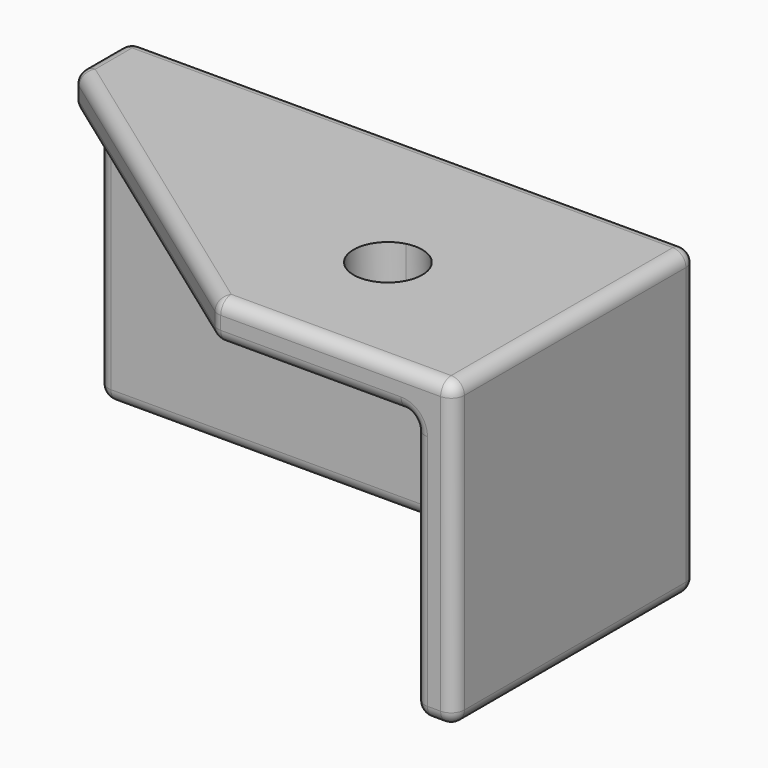
from build123d import *

# Parameters (mm, degrees)
F0_W     = 43
F0_H     = 23
F0_R     = 2.6
F1_DEPTH = 1.5
F3_DEPTH = 20
F5_DEPTH = 3.001
F7_DEPTH = 3.001
F8_R     = 1


with BuildPart() as f1:
    # F0 (on Front) → F1 (new body, symmetric)
    with BuildSketch(Plane.XZ):
        Rectangle(F0_W, F0_H)
        with Locations((-11.5, 0)):
            Circle(F0_R, mode=Mode.SUBTRACT)
        with Locations((8.5, 0)):
            Circle(F0_R, mode=Mode.SUBTRACT)
    extrude(amount=F1_DEPTH, both=True)

    # F2 (on face) → F3 (join)
    with BuildSketch(Plane.XZ.offset(1.5)):
        Polygon((21.5, -11.5), (21.5, 11.5), (-21.5, 11.5), (-21.5, 8.5), (18.5, 8.5), (18.5, -11.5), align=None)
    extrude(amount=F3_DEPTH)

    # F4 (on face) → F5 (cut, through all)
    with BuildSketch(Plane(origin=(0, 0, 8.5), x_dir=(1, 0, 0), z_dir=(0, 0, -1))):
        with BuildLine():
            ThreePointArc((9.1542480146, 14.0163385176), (5.9836614824, 12.1542480146), (7.8457519854, 8.9836614824))
            Line((7.8457519854, 8.9836614824), (9.1542480146, 14.0163385176))
        make_face()
        with BuildLine():
            Line((9.1542480146, 14.0163385176), (7.8457519854, 8.9836614824))
            ThreePointArc((7.8457519854, 8.9836614824), (10.0904331426, 9.4431766194), (11.1, 11.5))
            ThreePointArc((11.1, 11.5), (10.5568233806, 13.0904331426), (9.1542480146, 14.0163385176))
        make_face()
    extrude(amount=-F5_DEPTH, mode=Mode.SUBTRACT)

    # F6 (on face) → F7 (cut, through all)
    with BuildSketch(Plane(origin=(0, 0, 8.5), x_dir=(1, 0, 0), z_dir=(0, 0, -1))):
        Polygon((-21.5, 3.5), (3.5, 21.5), (-21.5, 21.5), align=None)
    extrude(amount=-F7_DEPTH, mode=Mode.SUBTRACT)

    # F8
    f8_edges = [f1.edges().sort_by_distance(p)[0] for p in [
        (21.5, 1.5, 0),
        (21.5, -10, 11.5),
        (21.5, -21.5, 0),
        (21.5, -10, -11.5),
        (0, 1.5, -11.5),
        (0, 1.5, 11.5),
        (-21.5, -1, 11.5),
        (-9, -12.5, 11.5),
        (12.5, -21.5, 11.5),
        (-9, -12.5, 8.5),
        (3.5, -21.5, 10),
        (11, -21.5, 8.5),
        (18.5, -21.5, -1.5),
        (-1.5, -1.5, -11.5),
        (18.5, -11.5, 8.5),
        (18.5, -11.5, -11.5),
        (18.5, -1.5, -1.5),
        (20, -21.5, -11.5),
        (-21.5, 0, -11.5),
        (-21.5, 1.5, 0),
        (-21.5, -1.5, -1.5),
        (-21.5, -2.5, 8.5),
        (-21.5, -3.5, 10),
        (-1.5, -1.5, 8.5),
    ]]
    fillet(f8_edges, radius=F8_R)


solid = f1.part
